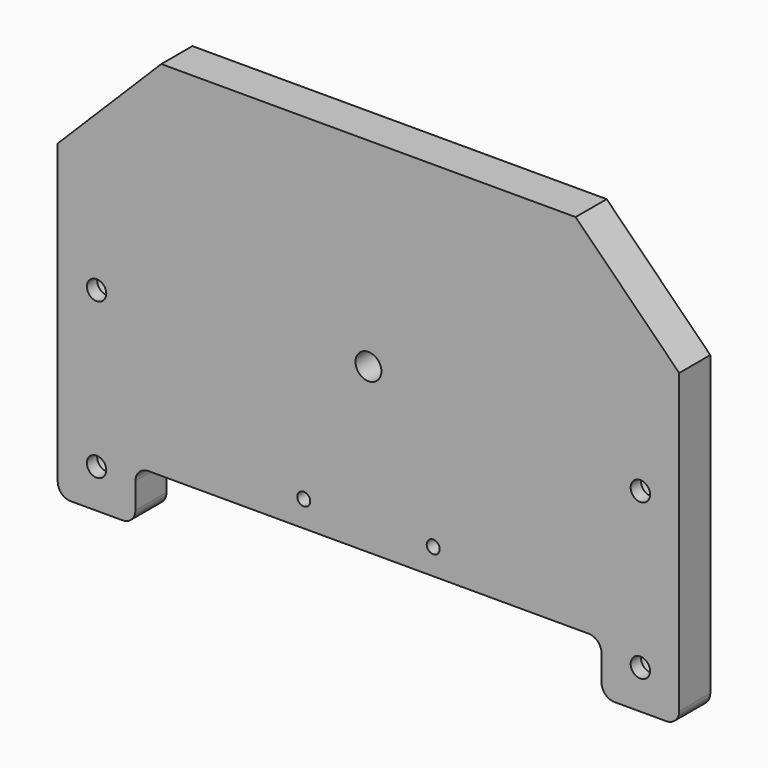
from build123d import *

# Parameters (mm, degrees)
F0_W            = 304.8
F0_H            = 203.2
F1_DEPTH        = 19.05
F2_W            = 228.6
F2_H            = 25.4
F3_DEPTH        = 19.051
F5_D            = 6.35
F6_R            = 6.35
F8_D            = 12.7
F9_R            = 6.35
F10_DEPTH       = 12.7
F12_D           = 9.525
F12_CBORE_D     = 15.875
F12_CBORE_DEPTH = 12.7
F13_SIZE        = 50.8


with BuildPart() as f1:
    # F0 (on Front) → F1 (new body)
    with BuildSketch(Plane.XZ):
        with Locations((152.4, 101.6)):
            Rectangle(F0_W, F0_H)
    extrude(amount=F1_DEPTH)

    # F2 (on face) → F3 (cut, through all)
    with BuildSketch(Plane.XZ.offset(19.05)):
        with Locations((152.4, 12.7)):
            Rectangle(F2_W, F2_H)
    extrude(amount=-F3_DEPTH, mode=Mode.SUBTRACT)

    # F5 (through all)
    with Locations(Plane.XZ.offset(19.05)):
        with Locations((120.65, 38.1), (184.15, 38.1)):
            Hole(F5_D / 2)

    # F6
    f6_edges = [f1.edges().sort_by_distance(p)[0] for p in [
        (38.1, -9.525, 25.4),
        (38.1, -9.525, 0),
        (0, -9.525, 0),
        (266.7, -9.525, 25.4),
        (266.7, -9.525, 0),
        (304.8, -9.525, 0),
    ]]
    fillet(f6_edges, radius=F6_R)

    # F8 (through all)
    with Locations(Plane.XZ.offset(19.05)):
        with Locations((152.4, 105.6132)):
            Hole(F8_D / 2)

    # F9 (on face) → F10 (cut)
    with BuildSketch(Plane(origin=(0, 0, 0), x_dir=(-1, 0, 0), z_dir=(0, 1, 0))):
        with Locations((-25.4, 134.1882)):
            Circle(F9_R)
        with Locations((-279.4, 134.1882)):
            Circle(F9_R)
    extrude(amount=-F10_DEPTH, mode=Mode.SUBTRACT)

    # F12 (through all)
    with Locations(Plane(origin=(0, 0, 0), x_dir=(-1, 0, 0), z_dir=(0, 1, 0))):
        with Locations((-285.75, 95.25), (-285.75, 19.05), (-19.05, 19.05), (-19.05, 95.25)):
            CounterBoreHole(F12_D / 2, F12_CBORE_D / 2, F12_CBORE_DEPTH)

    # F13
    f13_edges = [f1.edges().sort_by_distance(p)[0] for p in [
        (0, -9.525, 203.2),
        (304.8, -9.525, 203.2),
    ]]
    chamfer(f13_edges, length=F13_SIZE)


solid = f1.part
